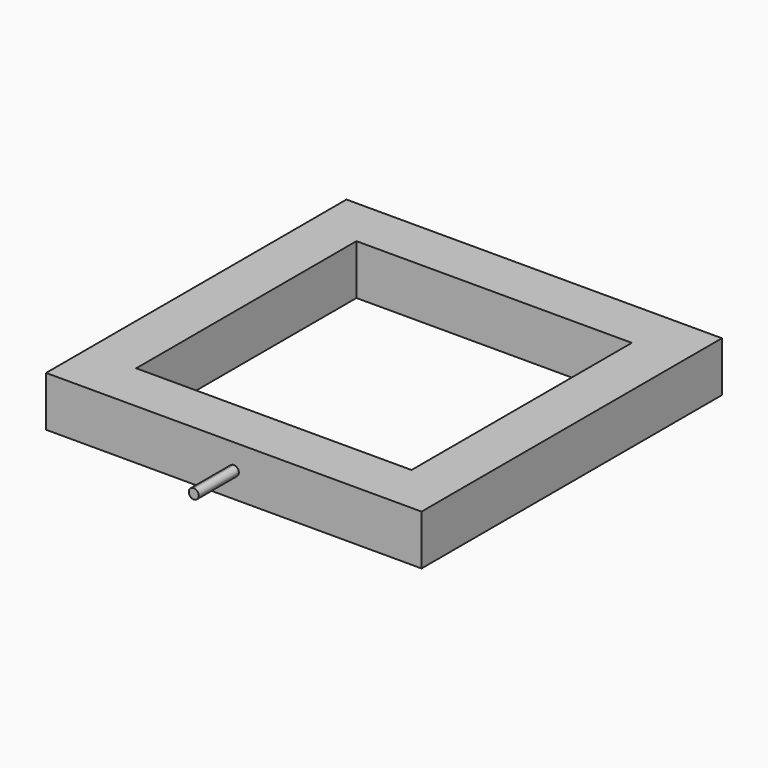
from build123d import *

# Parameters (mm, degrees)
F0_W     = 750
F0_H     = 750
F0_W_2   = 550
F0_H_2   = 550
F1_DEPTH = 100
F3_DEPTH = 100


with BuildPart() as f1:
    # F0 (on Top) → F1 (new body)
    with BuildSketch(Plane.XY):
        with Locations((244.376540184, 327.9930502176)):
            Rectangle(F0_W, F0_H)
        with Locations((244.376540184, 327.9930502176)):
            Rectangle(F0_W_2, F0_H_2, mode=Mode.SUBTRACT)
    extrude(amount=F1_DEPTH)

    # F2 (on face) → F3 (join)
    with BuildSketch(Plane.XZ.offset(47.0069497824)):
        with BuildLine():
            Line((244.376540184, 50), (254.376540184, 50))
            ThreePointArc((254.376540184, 50), (251.4476079959, 57.0710678119), (244.376540184, 60))
            Line((244.376540184, 60), (244.376540184, 50))
        make_face()
        with BuildLine():
            Line((234.376540184, 50), (244.376540184, 50))
            Line((244.376540184, 50), (244.376540184, 60))
            ThreePointArc((244.376540184, 60), (237.3054723722, 57.0710678119), (234.376540184, 50))
        make_face()
        with BuildLine():
            Line((244.376540184, 40), (244.376540184, 50))
            Line((244.376540184, 50), (234.376540184, 50))
            ThreePointArc((234.376540184, 50), (237.3054723722, 42.9289321881), (244.376540184, 40))
        make_face()
        with BuildLine():
            ThreePointArc((244.376540184, 40), (251.4476079959, 42.9289321881), (254.376540184, 50))
            Line((254.376540184, 50), (244.376540184, 50))
            Line((244.376540184, 50), (244.376540184, 40))
        make_face()
    extrude(amount=F3_DEPTH)


solid = f1.part
